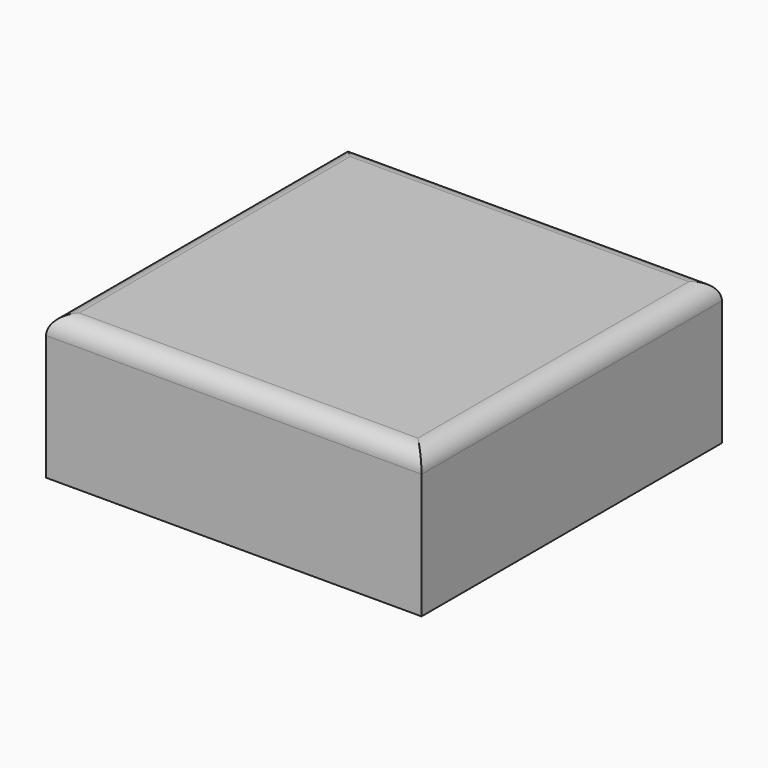
from build123d import *

# Parameters (mm, degrees)
BOX001_W     = 8
BOX001_H     = 8
BOX001_DEPTH = 3
BOX_W        = 10.2
BOX_H        = 10.2
BOX_DEPTH    = 3.9
FILLET_R     = 0.5


with BuildPart() as cube001:
    # Box001 → Box001 (new body)
    with BuildSketch(Plane(origin=(-4, -4, 0), x_dir=(1, 0, 0), z_dir=(0, 0, 1))):
        with Locations((4, 4)):
            Rectangle(BOX001_W, BOX001_H)
    extrude(amount=BOX001_DEPTH)


with BuildPart() as fillet_body:
    # Box → Box (new body)
    with BuildSketch(Plane(origin=(-5.1, -5.1, 0), x_dir=(1, 0, 0), z_dir=(0, 0, 1))):
        with Locations((5.1, 5.1)):
            Rectangle(BOX_W, BOX_H)
    extrude(amount=BOX_DEPTH)

    # Cut: cut Cube001
    add(cube001.part, mode=Mode.SUBTRACT)

    # Fillet
    fillet_edges = [fillet_body.edges().sort_by_distance(p)[0] for p in [
        (-5.1, 0, 3.9),
        (0, -5.1, 3.9),
        (0, 5.1, 3.9),
        (5.1, 0, 3.9),
    ]]
    fillet(fillet_edges, radius=FILLET_R)


solid = fillet_body.part
